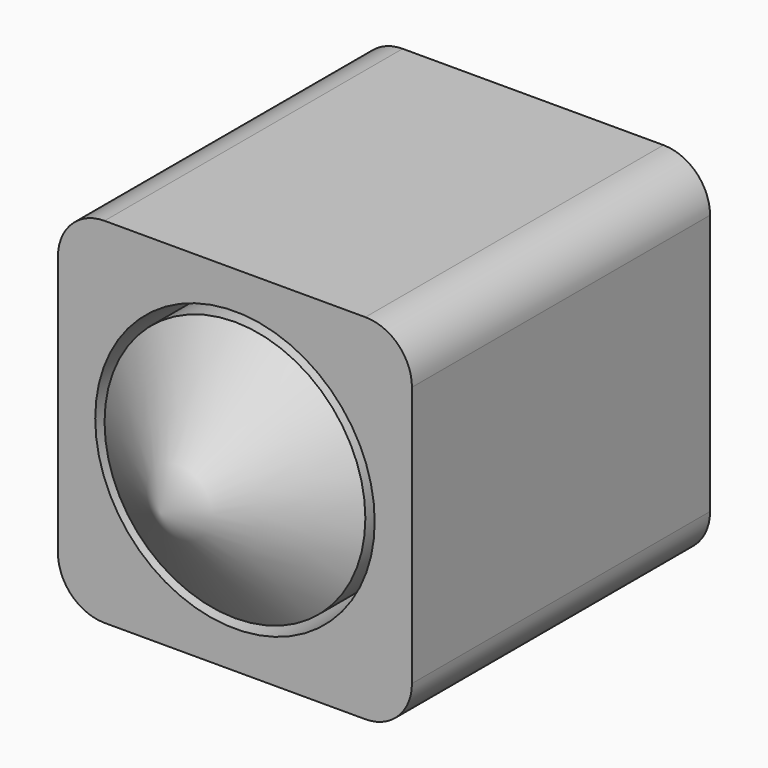
from build123d import *

# Parameters (mm, degrees)
F0_W     = 38
F0_H     = 38
F1_DEPTH = 20
F2_R     = 15
F3_DEPTH = 31
F4_R     = 5
F5_R     = 14
F6_DEPTH = 31


with BuildPart() as f1:
    # F0 (on Front) → F1 (new body, symmetric)
    with BuildSketch(Plane.XZ):
        Rectangle(F0_W, F0_H)
    extrude(amount=F1_DEPTH, both=True)

    # F2 (on face) → F3 (cut)
    with BuildSketch(Plane.XZ.offset(20)):
        Circle(F2_R)
    extrude(amount=-F3_DEPTH, mode=Mode.SUBTRACT)

    # F4
    f4_edges = [f1.edges().sort_by_distance(p)[0] for p in [
        (19, 0, -19),
        (19, 0, 19),
        (-19, 0, -19),
        (-19, 0, 19),
    ]]
    fillet(f4_edges, radius=F4_R)


with BuildPart() as f6:
    # F5 (on face) → F6 (new body, through all)
    with BuildSketch(Plane.XZ.offset(-11)):
        Circle(F5_R)
    extrude(amount=F6_DEPTH)

    # F7 (on Top) → F8 (revolve)
    with BuildSketch(Plane.XY):
        Polygon((0, -30), (14, -20), (0, -20), align=None)
    revolve(axis=Axis((0, -20, 0), (0, -1, 0)))


solid = Compound([f1.part, f6.part])
